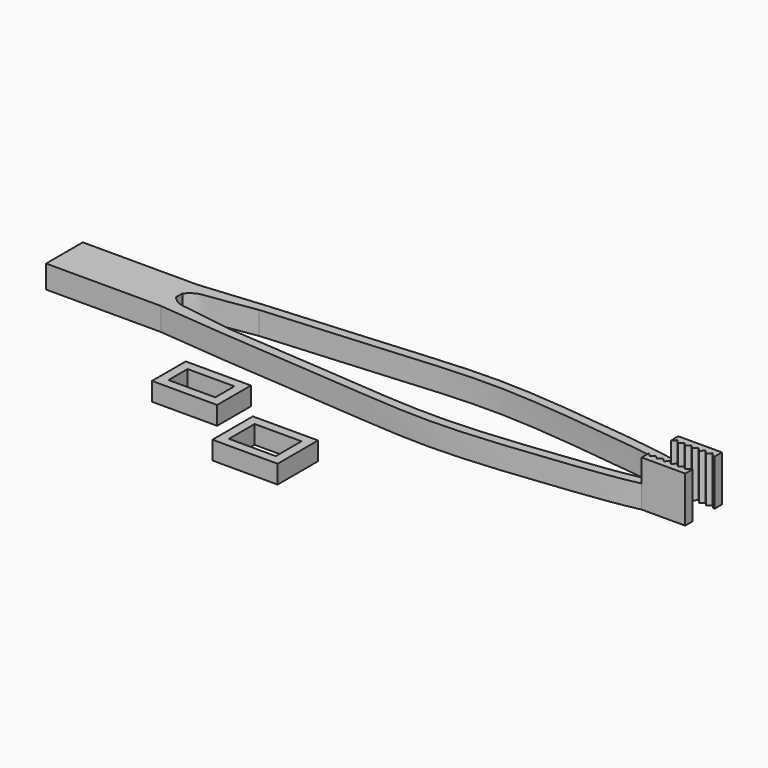
from build123d import *

# Parameters (mm, degrees)
F1_DEPTH = 5
F2_W     = 14.2
F2_H     = 9.2
F2_W_2   = 10.2
F2_H_2   = 5.2
F3_DEPTH = 4
F2_H_3   = 11
F2_H_4   = 7
F5_DEPTH = 5


with BuildPart() as f1:
    # F0 (on Top) → F1 (new body)
    with BuildSketch(Plane.XY):
        with BuildLine():
            add(Edge.make_bspline(
                [(-68.500610282, 5), (-54.2031592123, 6.498236069), (-28.9568536919, 8.0169149267), (-5.690111388, 10.3538383758), (18.7019701535, 7.5542384302), (30.7361740896, 6.1988411601), (36.2649820745, 5)],
                knots=[0, 0, 0, 0, 0.3124026076, 0.5516971774, 0.7926463097, 1, 1, 1, 1], degree=3))
            Line((-68.500610282, 5), (-93.500610282, 5))
            Line((-93.500610282, 5), (-93.500610282, -5))
            Line((-93.500610282, -5), (-68.500610282, -5))
            add(Edge.make_bspline(
                [(-68.500610282, -5), (-54.2031592123, -6.498236069), (-28.9568536919, -8.0169149267), (-5.690111388, -10.3538383758), (18.7019701535, -7.5542384302), (30.7361740896, -6.1988411601), (36.2649820745, -5)],
                knots=[0, 0, 0, 0, 0.3124026076, 0.5516971774, 0.7926463097, 1, 1, 1, 1], degree=3))
            Line((36.2649820745, -5), (45.7649820745, -5))
            Line((45.7649820745, -5), (45.7649820745, -3))
            Line((45.7649820745, -3), (45.4640649259, -3))
            Line((45.4640649259, -3), (44.7209854505, -3.7662296239))
            Line((44.7209854505, -3.7662296239), (43.9308844507, -3))
            Line((43.9308844507, -3), (43.1878049753, -3.7662296239))
            Line((43.1878049753, -3.7662296239), (42.3977039754, -3))
            Line((42.3977039754, -3), (41.6546245001, -3.7662296239))
            Line((41.6546245001, -3.7662296239), (40.8645235002, -3))
            Line((40.8645235002, -3), (40.1214440248, -3.7662296239))
            Line((40.1214440248, -3.7662296239), (39.331343025, -3))
            Line((39.331343025, -3), (38.5882635496, -3.7662296239))
            Line((38.5882635496, -3.7662296239), (37.7981625497, -3))
            Line((37.7981625497, -3), (37.0550830744, -3.7662296239))
            Line((37.0550830744, -3.7662296239), (36.2649820745, -3))
            add(Edge.make_bspline(
                [(-54.5035110722, -4.2945796628), (-45.1174188085, -5.0673920481), (-25.942247112, -6.3197035472), (-5.690111388, -8.3538383758), (18.7019701535, -5.5542384302), (30.7361740896, -4.1988411601), (36.2649820745, -3)],
                knots=[0.1027009604, 0.1027009604, 0.1027009604, 0.1027009604, 0.3124026076, 0.5516971774, 0.7926463097, 1, 1, 1, 1], degree=3))
            add(Edge.make_bspline(
                [(-68.500610282, -0.9273324395), (-67.9470667678, -1.4571608606), (-66.6954203062, -2.6607387972), (-62.7879440715, -2.9097150623), (-57.6365610628, -3.8172235663), (-54.5035110722, -4.2945796628)],
                knots=[0, 0, 0, 0, 0.23763899, 0.5374337196, 1, 1, 1, 1], degree=3))
            Line((-68.500610282, -0.9273324395), (-68.500610282, 0.9273324395))
            add(Edge.make_bspline(
                [(-68.500610282, 0.9273324395), (-67.9470667678, 1.4571608606), (-66.6954203062, 2.6607387972), (-62.7879440715, 2.9097150623), (-57.6365610628, 3.8172235663), (-54.5035110722, 4.2945796628)],
                knots=[0, 0, 0, 0, 0.23763899, 0.5374337196, 1, 1, 1, 1], degree=3))
            add(Edge.make_bspline(
                [(-54.5035110722, 4.2945796628), (-45.1174188085, 5.0673920481), (-25.942247112, 6.3197035472), (-5.690111388, 8.3538383758), (18.7019701535, 5.5542384302), (30.7361740896, 4.1988411601), (36.2649820745, 3)],
                knots=[0.1027009604, 0.1027009604, 0.1027009604, 0.1027009604, 0.3124026076, 0.5516971774, 0.7926463097, 1, 1, 1, 1], degree=3))
            Line((36.2649820745, 3), (37.0550830744, 3.7662296239))
            Line((37.0550830744, 3.7662296239), (37.7981625497, 3))
            Line((37.7981625497, 3), (38.5882635496, 3.7662296239))
            Line((38.5882635496, 3.7662296239), (39.331343025, 3))
            Line((39.331343025, 3), (40.1214440248, 3.7662296239))
            Line((40.1214440248, 3.7662296239), (40.8645235002, 3))
            Line((40.8645235002, 3), (41.6546245001, 3.7662296239))
            Line((41.6546245001, 3.7662296239), (42.3977039754, 3))
            Line((42.3977039754, 3), (43.1878049753, 3.7662296239))
            Line((43.1878049753, 3.7662296239), (43.9308844507, 3))
            Line((43.9308844507, 3), (44.7209854505, 3.7662296239))
            Line((44.7209854505, 3.7662296239), (45.4640649259, 3))
            Line((45.4640649259, 3), (45.7649820745, 3))
            Line((45.7649820745, 3), (45.7649820745, 5))
            Line((45.7649820745, 5), (36.2649820745, 5))
        make_face()
    extrude(amount=F1_DEPTH)

    # F4 (on face) → F5 (join)
    with BuildSketch(Plane.XY.offset(5)):
        Polygon((36.2649820745, 5), (36.2649820745, 3), (37.0550830744, 3.7662296239), (37.7981625497, 3), (38.5882635496, 3.7662296239), (39.331343025, 3), (40.1214440248, 3.7662296239), (40.8645235002, 3), (41.6546245001, 3.7662296239), (42.3977039754, 3), (43.1878049753, 3.7662296239), (43.9308844507, 3), (44.7209854505, 3.7662296239), (45.4640649259, 3), (45.7649820745, 3), (45.7649820745, 5), align=None)
        Polygon((37.0550830744, -3.7662296239), (36.2649820745, -3), (36.2649820745, -5), (45.7649820745, -5), (45.7649820745, -3), (45.4640649259, -3), (44.7209854505, -3.7662296239), (43.9308844507, -3), (43.1878049753, -3.7662296239), (42.3977039754, -3), (41.6546245001, -3.7662296239), (40.8645235002, -3), (40.1214440248, -3.7662296239), (39.331343025, -3), (38.5882635496, -3.7662296239), (37.7981625497, -3), align=None)
    extrude(amount=F5_DEPTH)


with BuildPart() as f3:
    # F2 (on Top) → F3 (new body)
    with BuildSketch(Plane.XY):
        with Locations((-46.5084100604, -21.4228421539)):
            Rectangle(F2_W, F2_H)
        with Locations((-46.5084100604, -21.4228421539)):
            Rectangle(F2_W_2, F2_H_2, mode=Mode.SUBTRACT)
    extrude(amount=F3_DEPTH)


with BuildPart() as f3b:
    # F2 (on Top) → F3, piece 2 (new body)
    with BuildSketch(Plane.XY):
        with Locations((-24.9447634608, -31.0053733885)):
            Rectangle(F2_W, F2_H_3)
        with Locations((-24.9447634608, -31.0053733885)):
            Rectangle(F2_W_2, F2_H_4, mode=Mode.SUBTRACT)
    extrude(amount=F3_DEPTH)


solid = Compound([f1.part, f3.part, f3b.part])
